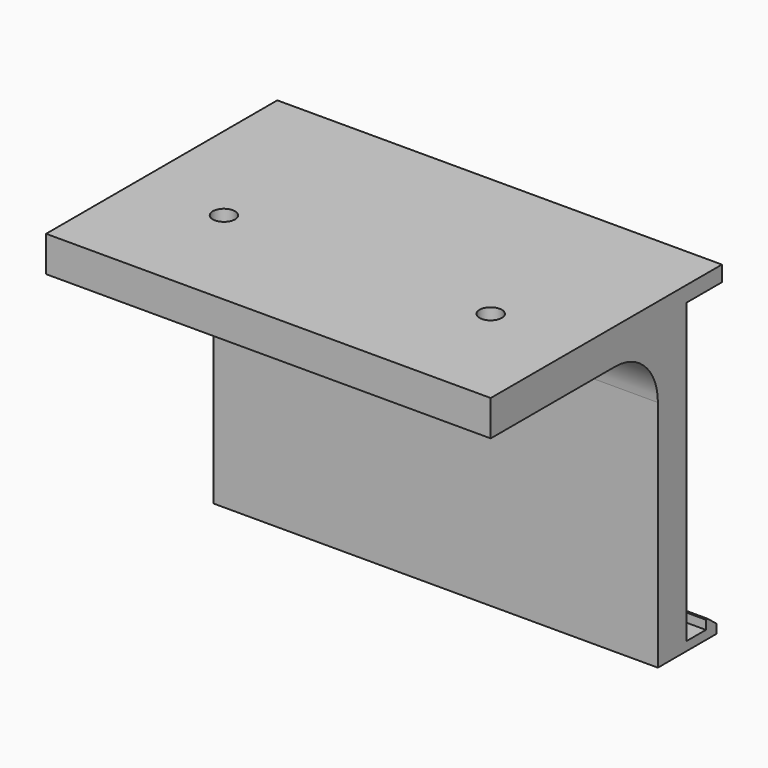
from build123d import *

# Parameters (mm, degrees)
F1_DEPTH = 50
F3_DEPTH = 100
F4_R     = 2.5
F5_DEPTH = 8
F6_R     = 12


with BuildPart() as f1:
    # F0 (on Right) → F1 (new body, symmetric)
    with BuildSketch(Plane.YZ):
        Polygon((0, -3.5), (0, 0), (-65, 0), (-65, -8), (-18, -8), (-18, -72.5), (-1.5, -72.5), (-1.5, -68.5), (-4.5, -68.5), (-4.5, -70.5), (-10, -70.5), (-10, -3.5), align=None)
    extrude(amount=F1_DEPTH, both=True)

    # F2 (on face) → F3 (cut, through all)
    with BuildSketch(Plane.YZ.offset(50)):
        Polygon((-1.5, -68.5), (-4, -68.5), (-1.5, -70.5), align=None)
    extrude(amount=-F3_DEPTH, mode=Mode.SUBTRACT)

    # F4 (on face) → F5 (cut, through all)
    with BuildSketch(Plane.XY):
        with Locations((-30, -40)):
            Circle(F4_R)
        with Locations((30, -40)):
            Circle(F4_R)
    extrude(amount=-F5_DEPTH, mode=Mode.SUBTRACT)

    # F6
    f6_edges = [f1.edges().sort_by_distance(p)[0] for p in [
        (0, -18, -8),
    ]]
    fillet(f6_edges, radius=F6_R)


solid = f1.part
